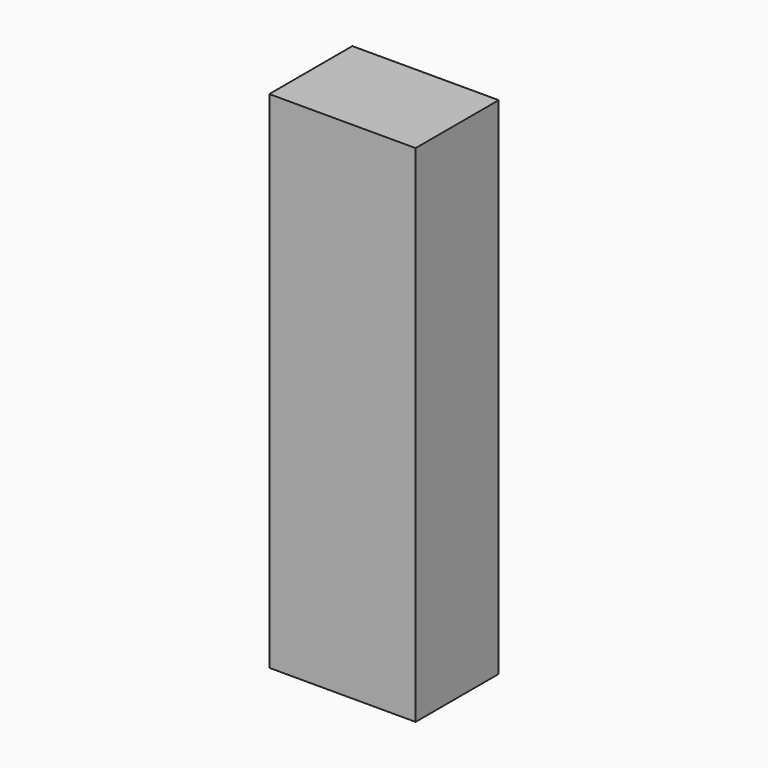
from build123d import *

# Parameters (mm, degrees)
SKETCH_W  = 31
SKETCH_H  = 22
PAD_DEPTH = 107


with BuildPart() as part:
    # Sketch → Pad (new body)
    with BuildSketch(Plane.XY):
        with Locations((15.5, 11)):
            Rectangle(SKETCH_W, SKETCH_H)
    extrude(amount=PAD_DEPTH)


solid = part.part
